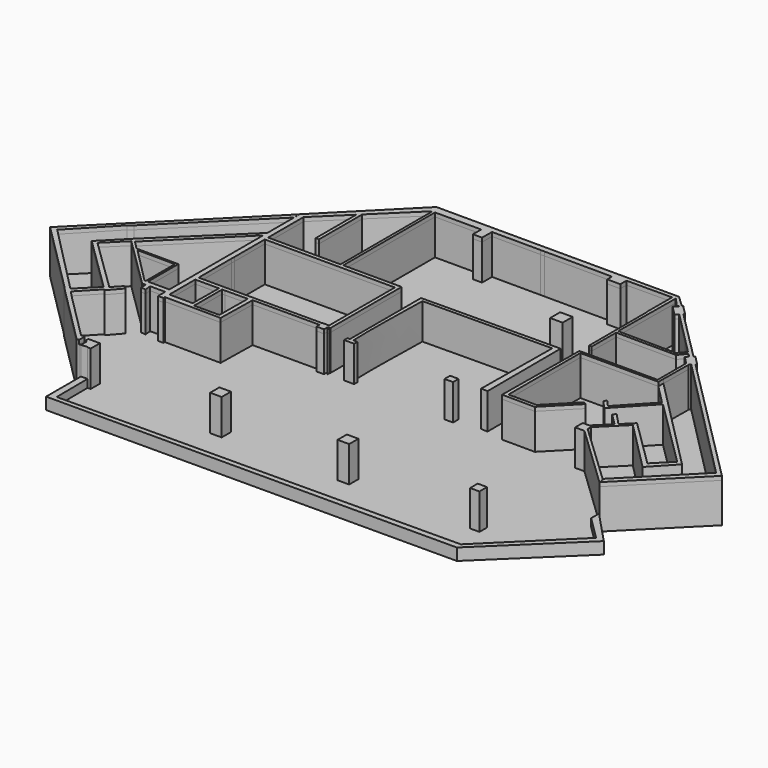
from build123d import *

# Parameters (mm, degrees)
F1_DEPTH = 25.4
F0_W     = 7.4122788
F0_H     = 7.4122788
F0_W_2   = 5.9868308
F0_H_2   = 6.1293756
F0_W_3   = 5.4580536
F0_H_3   = 4.4492164
F0_W_4   = 8.063484
F0_H_4   = 8.063484
F2_DEPTH = 7.62
F3_DEPTH = 2.54
F5_DEPTH = 2.54


with BuildPart() as f1:
    # F0 (on Top) → F1 (new body)
    with BuildSketch(Plane.XY):
        with BuildLine():
            Line((-186.579764, -10.2895908), (-174.435389, 1.704848))
            add(Edge.make_bspline(
                [(-174.435389, 1.704848), (-159.9824842, -12.9130044), (-156.0059618, -16.0330642), (-141.6006058, -30.6977796)],
                knots=[0, 0, 0, 0, 1, 1, 1, 1], degree=3))
            Line((-141.6006058, -30.6977796), (-139.2987308, -30.6095908))
            Line((-139.2987308, -30.6095908), (-139.3075446, -34.4989658))
            Line((-139.3075446, -34.4989658), (-136.1413584, -34.7370908))
            Line((-136.1413584, -34.7370908), (-136.5382334, -30.600777))
            Line((-136.5382334, -30.600777), (-126.828042, -30.600777))
            Line((-126.828042, -30.600777), (-126.828042, -36.3334046))
            Line((-126.828042, -36.3334046), (-123.4061032, -36.3334046))
            Line((-123.4061032, -36.3334046), (-123.4061032, -35.1604326))
            Line((-123.4061032, -35.1604326), (-87.458042, -35.3985576))
            Line((-87.458042, -35.3985576), (-86.964139, -10.2895908))
            Line((-86.964139, -10.2895908), (-44.1457334, -10.2190296))
            Line((-44.1457334, -10.2190296), (-44.1457334, -12.6443994))
            Line((-44.1457334, -12.6443994), (-39.3038584, -12.6443994))
            Line((-39.3038584, -12.6443994), (-39.3038584, -9.7516188))
            add(Edge.make_bspline(
                [(-39.3038584, -9.7516188), (-39.042594, -9.689719), (-38.7960362, -9.6362774), (-38.5806696, -9.6281494)],
                knots=[0, 0, 0, 0, 1, 1, 1, 1], degree=3))
            add(Edge.make_bspline(
                [(-38.5806696, -9.6281494), (-38.2217676, -9.6145858), (-37.9570488, -9.727311), (-37.910389, -10.1396546)],
                knots=[0, 0, 0, 0, 1, 1, 1, 1], degree=3))
            add(Edge.make_bspline(
                [(-37.910389, -10.1396546), (-37.5559828, -13.2721858), (-37.7503182, -11.264138), (-37.910389, -9.6281494)],
                knots=[0, 0, 0, 0, 1, 1, 1, 1], degree=3))
            Line((-37.910389, -9.6281494), (-37.6546364, -9.6281494))
            Line((-37.6546364, -9.6281494), (-37.6546364, 47.6012256))
            Line((-37.6546364, 47.6012256), (-75.137264, 47.6012256))
            Line((-75.137264, 47.6012256), (-75.137264, 121.1730368))
            Line((-75.137264, 121.1730368), (-45.4069196, 121.1730368))
            Line((-45.4069196, 121.1730368), (-45.5039476, 114.5408174))
            Line((-45.5039476, 114.5408174), (-39.6037308, 114.5143506))
            Line((-39.6037308, 114.5143506), (-39.5508226, 122.4606898))
            Line((-39.5508226, 122.4606898), (-8.2506058, 122.354848))
            Line((-8.2506058, 122.354848), (-5.9311032, 122.3460342))
            Line((-5.9311032, 122.3460342), (37.6722386, 122.2049118))
            Line((37.6722386, 122.2049118), (37.6722386, 118.3596312))
            Line((37.6722386, 118.3596312), (46.0948024, 118.306723))
            Line((46.0948024, 118.306723), (46.0859886, 123.2897204))
            Line((46.0859886, 123.2897204), (75.2519196, 123.4308174))
            Line((75.2519196, 123.4308174), (75.16368, 104.3808174))
            Line((75.16368, 104.3808174), (75.3930166, 102.3347204))
            Line((75.3930166, 102.3347204), (75.4635778, 56.5706006))
            Line((75.4635778, 56.5706006), (77.183361, 56.5353454))
            Line((77.183361, 56.5353454), (77.262736, 75.999848))
            Line((77.262736, 75.999848), (115.980083, 75.7970036))
            Line((115.980083, 75.7970036), (119.8993975101, 80.7291027287))
            Line((119.8993975101, 80.7291027287), (118.4822300976, 82.1553805053))
            Line((118.4822300976, 82.1553805053), (114.5425192, 77.5344398))
            Line((114.5425192, 77.5344398), (77.0510778, 77.8960342))
            Line((77.0510778, 77.8960342), (77.4744196, 123.4749118))
            Line((77.4744196, 123.4749118), (77.641958, 123.5278454))
            Line((77.641958, 123.5278454), (83.0306188, 117.4424118))
            Line((83.0306188, 117.4424118), (84.3404952529, 118.2445676529))
            Line((84.3404952529, 118.2445676529), (85.1126870864, 119.0167594864))
            Line((85.1126870864, 119.0167594864), (77.5361416, 126.1031006))
            Line((77.5361416, 126.1031006), (46.0771748, 126.1207536))
            Line((46.0771748, 126.1207536), (37.6722386, 126.1295674))
            Line((37.6722386, 126.1295674), (-78.2240752, 126.2001286))
            Line((-78.2240752, 126.2001286), (-126.810389, 77.3051286))
            Line((-126.810389, 77.3051286), (-126.8015752, 72.3397842))
            Line((-126.8015752, 72.3397842), (-126.810389, 51.3318506))
            Line((-126.810389, 51.3318506), (-175.008667, 4.7563786))
            Line((-175.008667, 4.7563786), (-190.0987308, -10.5365296))
            Line((-190.0987308, -10.5365296), (-154.2212308, -45.7349352))
            Line((-154.2212308, -45.7349352), (-166.1715752, -57.5441826))
            Line((-166.1715752, -57.5441826), (-211.2124808, -11.788902))
            Line((-211.2124808, -11.788902), (-186.835542, 13.7963148))
            Line((-186.835542, 13.7963148), (-184.0838584, 15.9482536))
            Line((-184.0838584, 15.9482536), (-126.8368558, 72.6837256))
            Line((-126.8368558, 72.6837256), (-126.8986032, 77.0934704))
            Line((-126.8986032, 77.0934704), (-215.7721364, -11.788902))
            Line((-215.7721364, -11.788902), (-169.2319196, -58.3291188))
            Line((-169.2319196, -58.3291188), (-169.3818558, -58.4702158))
            Line((-169.3818558, -58.4702158), (-129.3856696, -98.466402))
            Line((-129.3856696, -98.466402), (-128.0246868, -98.1021933913))
            Line((-128.0246868, -98.1021933913), (-128.0246868, -93.7303688))
            Line((-128.0246868, -93.7303688), (-130.3734502, -93.7303688))
            Line((-130.3734502, -93.7303688), (-161.4531696, -62.6594632))
            Line((-161.4531696, -62.6594632), (-163.975542, -59.7490296))
            Line((-163.975542, -59.7490296), (-152.3426976, -47.5693994))
            Line((-152.3426976, -47.5693994), (-151.6459502, -48.2573076))
            Line((-151.6459502, -48.2573076), (-144.608042, -40.1169632))
            Line((-144.608042, -40.1169632), (-146.733514, -38.4853688))
            Line((-146.733514, -38.4853688), (-151.972264, -44.0680602))
            Line((-151.972264, -44.0680602), (-186.579764, -10.2895908))
        make_face()
        Polygon((-123.4061032, -31.5973714), (-123.4061032, -10.7923076), (-108.2190114, -10.7923076), (-108.2190114, -17.7243994), (-108.4306696, -28.8280602), (-108.4042282, -31.5973714), align=None, mode=Mode.SUBTRACT)
        Polygon((-142.7912308, -27.3199352), (-165.9687308, -3.9748714), (-141.8387308, -4.1777158), (-141.8387308, -27.3199352), align=None, mode=Mode.SUBTRACT)
        with BuildLine():
            Line((-89.7687308, -10.6423714), (-89.980389, -33.220152))
            add(Edge.make_bspline(
                [(-89.980389, -33.220152), (-95.407353, -33.1318616), (-100.834063, -33.1901292), (-106.2611032, -33.2289658)],
                knots=[0, 0, 0, 0, 1, 1, 1, 1], degree=3))
            Line((-106.2611032, -33.2289658), (-106.1552614, -31.9413382))
            Line((-106.1552614, -31.9413382), (-106.1552614, -29.0309046))
            Line((-106.1552614, -29.0309046), (-106.1552614, -18.6416188))
            Line((-106.1552614, -18.6416188), (-106.1552614, -10.7923076))
            Line((-106.1552614, -10.7923076), (-104.1620726, -10.7923076))
            Line((-104.1620726, -10.7923076), (-89.7687308, -10.6423714))
        make_face(mode=Mode.SUBTRACT)
        Polygon((-172.7332334, 2.5074118), (-126.810389, 47.8922842), (-126.828042, -27.3199352), (-140.5334502, -27.3199352), (-140.5334502, -2.9694632), (-167.4856696, -2.8724352), align=None, mode=Mode.SUBTRACT)
        Polygon((-123.4061032, 43.138598), (-123.4061032, 44.9995036), (-39.9300446, 44.9995036), (-39.9300446, -7.7936852), (-44.1457334, -7.7936852), (-44.1457334, -7.9612744), (-74.5111032, -7.9877158), (-76.7071364, -7.9965296), (-81.2315114, -8.0141826), (-84.4594196, -8.0229964), (-89.027889, -8.0406494), (-100.1315752, -8.0847438), (-103.1654782, -8.0847438), (-123.4061032, -8.0847438), (-123.476639, 18.1707536), (-123.4061032, 20.8077562), align=None, mode=Mode.SUBTRACT)
        Polygon((-102.221792, 96.6814424), (-77.1040114, 121.1730368), (-76.8482334, 121.1730368), (-76.8482334, 47.6012256), (-123.4061032, 47.6012256), (-123.4061032, 76.0174756), (-104.364917, 94.5912256), (-104.364917, 61.9945674), (-102.221792, 61.9945674), align=None, mode=Mode.SUBTRACT)
        Polygon((89.5903613421, 111.2323156358), (91.0690922352, 112.7110564412), (91.694762, 113.3367304), (85.56371, 119.4677824), (85.1126870864, 119.0167594864), (84.3404952529, 118.2445676529), (81.7745126, 115.678585), (87.9055646, 109.5475076), align=None)
        Polygon((128.3329868442, 72.4310531806), (129.8406346931, 73.9343211209), (130.4704274, 74.5622842), (124.332111, 80.6917868), (123.679458, 80.0391592), (91.0690922352, 112.7110564412), (89.5903613421, 111.2323156358), (108.4747386, 92.2276286), (109.7800192, 90.9135342), (118.4822300976, 82.1553805053), (119.8993975101, 80.7291027287), (122.1272386, 78.4869398), (120.5485778, 76.9082536), (125.5138968, 71.9429092), (127.4365498, 71.5372204), align=None)
        Polygon((171.6043304, -51.6968994), (172.2458074, -55.86349), (215.772111, -12.2475244), (129.8406346931, 73.9343211209), (128.3329868442, 72.4310531806), (211.4329274, -11.4978688), align=None)
        with BuildLine():
            Line((127.2092319229, 51.5437936409), (127.4365498, 71.5372204))
            Line((127.4365498, 71.5372204), (125.5138968, 71.9429092))
            add(Edge.make_bspline(
                [(125.5138968, 71.9429092), (125.5015016, 71.0185524), (125.5557306, 51.8729976), (125.5226598, 49.0388148)],
                knots=[0, 0, 0, 0, 1, 1, 1, 1], degree=3))
            Line((125.5226598, 49.0388148), (75.3223792, 48.9858812))
            Line((75.3223792, 48.9858812), (77.1023718988, 47.477903465))
            Line((77.1023718988, 47.477903465), (127.1629918, 47.5306898))
            Line((127.1629918, 47.5306898), (127.1983994, 51.5547342259))
            Line((127.1983994, 51.5547342259), (127.2092319229, 51.5437936409))
        make_face()
        Polygon((77.1023718988, 47.477903465), (75.3223792, 48.9858812), (74.7226598, -12.3004326), (95.7835016, -12.3974352), (113.791055229, 5.9210716912), (112.0377236, 6.9612256), (95.1837568, -10.1837744), (77.1023718988, -10.1837744), align=None)
    extrude(amount=F1_DEPTH)

    # F4 (on Top) → F5 (join)
    with BuildSketch(Plane.XY):
        Polygon((-210.9410613775, -11.7175243795), (-166.242569685, -57.3654957116), (-154.4106155634, -45.6796176732), (-190.1986151934, -10.5489427224), (-127.0218342543, 51.3131767511), (-127.0218342543, 72.2016915679), align=None)
    extrude(amount=F5_DEPTH)


with BuildPart() as f1b:
    # F0 (on Top) → F1, piece 2 (new body)
    with BuildSketch(Plane.XY):
        Polygon((-128.0246868, -90.8087846), (-128.0246868, -93.7303688), (-126.8809502, -93.7303688), (-126.8809502, -97.7961214), (-128.0246868, -98.1021933913), (-128.0246868, -98.2210634), (-126.7919327242, -98.2210634), (-126.7919232, -98.2131132), (-122.6185, -97.6776558), (-122.6144333864, -98.2210634), (-120.612408, -98.2210634), (-120.612408, -90.8087846), align=None)
    extrude(amount=F1_DEPTH)


with BuildPart() as f1c:
    # F0 (on Top) → F1, piece 3 (new body)
    with BuildSketch(Plane.XY):
        with Locations((-40.217725, -94.514924)):
            Rectangle(F0_W, F0_H)
    extrude(amount=F1_DEPTH)


with BuildPart() as f1d:
    # F0 (on Top) → F1, piece 4 (new body)
    with BuildSketch(Plane.XY):
        with Locations((41.6023806, -94.514924)):
            Rectangle(F0_W, F0_H)
    extrude(amount=F1_DEPTH)


with BuildPart() as f1e:
    # F0 (on Top) → F1, piece 5 (new body)
    with BuildSketch(Plane.XY):
        with Locations((125.4181134, -94.5350408)):
            Rectangle(F0_W_2, F0_H_2)
    extrude(amount=F1_DEPTH)


with BuildPart() as f1f:
    # F0 (on Top) → F1, piece 6 (new body)
    with BuildSketch(Plane.XY):
        Polygon((128.4115288, -13.3362446), (128.4115288, -10.7728800491), (128.4115288, -8.2095154983), (128.4115288, -7.206869), (126.6358715953, -7.206869), (122.424698, -7.206869), (122.424698, -13.3362446), align=None)
        Polygon((141.141831, 33.7635342), (139.5278896, 34.9717868), (120.7865504, 15.0133812), (116.756053, 19.4495674), (115.6022055953, 17.7925513685), (120.7865504, 12.0863775155), align=None)
        Polygon((189.322583, -11.1891826), (127.2092319229, 51.5437936409), (127.1983994, 50.5910342), (127.1629918, 47.5306898), (139.5278896, 34.9717868), (141.141831, 33.7635342), (185.6976474, -10.5806494), align=None)
        Polygon((128.4115288, -7.206869), (128.4115288, -8.2095154983), (143.42618, 6.705473), (175.6888594622, -25.7727873056), (189.322583, -11.1891826), (185.6976474, -10.5806494), (175.0878896, -21.1992464), (143.7964866, 9.6335342), (137.1113336, 3.0718506), (129.6943304, 10.8947204), (128.0538968, 9.2542868), (135.7268304, 1.7136618), (126.6358715953, -7.206869), align=None)
        Polygon((168.8981636, -52.0098209381), (171.6043304, -51.6968994), (128.4115288, -10.7728800491), (128.4115288, -13.3362446), align=None)
    extrude(amount=F1_DEPTH)


with BuildPart() as f1g:
    # F0 (on Top) → F1, piece 7 (new body)
    with BuildSketch(Plane.XY):
        with Locations((41.2001208, -10.9341158)):
            Rectangle(F0_W_3, F0_H_3)
    extrude(amount=F1_DEPTH)


with BuildPart() as f1h:
    # F0 (on Top) → F1, piece 8 (new body)
    with BuildSketch(Plane.XY):
        with Locations((42.5104306, 75.5468136)):
            Rectangle(F0_W_4, F0_H_4)
    extrude(amount=F1_DEPTH)


with BuildPart() as f1i:
    # F0 (on Top) → F1, piece 9 (new body)
    with BuildSketch(Plane.XY):
        with BuildLine():
            Line((-20.781772, -8.9679272), (-23.3482388, -8.9679272))
            add(Edge.make_bspline(
                [(-23.3482388, -8.9679272), (-24.1461036, 7.4439526), (-23.1096566, 27.5244814), (-22.9450646, 45.8613002)],
                knots=[0, 0, 0, 0, 1, 1, 1, 1], degree=3))
            Line((-22.9450646, 45.8613002), (59.8487754, 46.5191602))
            Line((59.8487754, 46.5191602), (59.338337, -9.827133))
            Line((59.338337, -9.827133), (63.5677164, -10.0799138))
            Line((63.5677164, -10.0799138), (63.3305058, 48.8825794))
            Line((63.3305058, 48.8825794), (-25.5707388, 48.076231))
            Line((-25.5707388, 48.076231), (-25.5707388, -8.9679272))
            Line((-25.5707388, -8.9679272), (-27.131772, -8.9679272))
            Line((-27.131772, -8.9679272), (-27.1847056, -11.5961414))
            Line((-27.1847056, -11.5961414), (-20.781772, -11.5961414))
            Line((-20.781772, -11.5961414), (-20.781772, -8.9679272))
        make_face()
    extrude(amount=F1_DEPTH)


with BuildPart() as f2:
    # F0 (on Top) → F2 (new body)
    with BuildSketch(Plane.XY):
        Polygon((-122.6144333864, -98.2210634), (-126.7919327242, -98.2210634), (-126.8254512, -126.2001286), (136.253347, -125.4844074), (189.428374, -74.061955), (172.2458074, -55.86349), (171.6043304, -51.6968994), (168.8981636, -52.0098209381), (168.8981636, -58.5696568), (184.1954152, -73.6845872), (135.6508844, -121.5501252), (-122.4276444, -123.1810338), align=None)
    extrude(amount=F2_DEPTH)


with BuildPart() as f3:
    # F0 (on Top) + F1_face (on face) → F3 (new body)
    with BuildSketch(Plane.XY):
        with BuildLine():
            add(Edge.make_bspline(
                [(-174.435389, 1.704848), (-159.9824842, -12.9130044), (-156.0059618, -16.0330642), (-141.6006058, -30.6977796)],
                knots=[0, 0, 0, 0, 1, 1, 1, 1], degree=3))
            Line((-174.435389, 1.704848), (-186.579764, -10.2895908))
            Line((-186.579764, -10.2895908), (-151.972264, -44.0680602))
            Line((-151.972264, -44.0680602), (-146.733514, -38.4853688))
            Line((-146.733514, -38.4853688), (-144.608042, -40.1169632))
            Line((-144.608042, -40.1169632), (-151.6459502, -48.2573076))
            Line((-151.6459502, -48.2573076), (-152.3426976, -47.5693994))
            Line((-152.3426976, -47.5693994), (-163.975542, -59.7490296))
            Line((-163.975542, -59.7490296), (-161.4531696, -62.6594632))
            Line((-161.4531696, -62.6594632), (-130.3734502, -93.7303688))
            Line((-130.3734502, -93.7303688), (-128.0246868, -93.7303688))
            Line((-128.0246868, -93.7303688), (-128.0246868, -90.8087846))
            Line((-128.0246868, -90.8087846), (-120.612408, -90.8087846))
            Line((-120.612408, -90.8087846), (-120.612408, -98.2210634))
            Line((-120.612408, -98.2210634), (-122.6144333864, -98.2210634))
            Line((-122.6144333864, -98.2210634), (-122.4276444, -123.1810338))
            Line((-122.4276444, -123.1810338), (135.6508844, -121.5501252))
            Line((135.6508844, -121.5501252), (184.1954152, -73.6845872))
            Line((184.1954152, -73.6845872), (168.8981636, -58.5696568))
            Line((168.8981636, -58.5696568), (168.8981636, -52.0098209381))
            Line((168.8981636, -52.0098209381), (128.4115288, -13.3362446))
            Line((128.4115288, -13.3362446), (122.424698, -13.3362446))
            Line((122.424698, -13.3362446), (122.424698, -7.206869))
            Line((122.424698, -7.206869), (126.6358715953, -7.206869))
            Line((126.6358715953, -7.206869), (135.7268304, 1.7136618))
            Line((135.7268304, 1.7136618), (128.0538968, 9.2542868))
            Line((128.0538968, 9.2542868), (129.6943304, 10.8947204))
            Line((129.6943304, 10.8947204), (137.1113336, 3.0718506))
            Line((137.1113336, 3.0718506), (143.7964866, 9.6335342))
            Line((143.7964866, 9.6335342), (175.0878896, -21.1992464))
            Line((175.0878896, -21.1992464), (185.6976474, -10.5806494))
            Line((185.6976474, -10.5806494), (141.141831, 33.7635342))
            Line((141.141831, 33.7635342), (120.7865504, 12.0863775155))
            Line((120.7865504, 12.0863775155), (115.6022055953, 17.7925513685))
            Line((115.6022055953, 17.7925513685), (116.756053, 19.4495674))
            Line((116.756053, 19.4495674), (120.7865504, 15.0133812))
            Line((120.7865504, 15.0133812), (139.5278896, 34.9717868))
            Line((139.5278896, 34.9717868), (127.1629918, 47.5306898))
            Line((127.1629918, 47.5306898), (77.1023718988, 47.477903465))
            Line((77.1023718988, 47.477903465), (77.1023718988, -10.1837744))
            Line((77.1023718988, -10.1837744), (95.1837568, -10.1837744))
            Line((95.1837568, -10.1837744), (112.0377236, 6.9612256))
            Line((112.0377236, 6.9612256), (113.791055229, 5.9210716912))
            Line((113.791055229, 5.9210716912), (95.7835016, -12.3974352))
            Line((95.7835016, -12.3974352), (74.7226598, -12.3004326))
            Line((74.7226598, -12.3004326), (75.3223792, 48.9858812))
            Line((75.3223792, 48.9858812), (125.5226598, 49.0388148))
            add(Edge.make_bspline(
                [(125.5138968, 71.9429092), (125.5015016, 71.0185524), (125.5557306, 51.8729976), (125.5226598, 49.0388148)],
                knots=[0, 0, 0, 0, 1, 1, 1, 1], degree=3))
            Line((125.5138968, 71.9429092), (120.5485778, 76.9082536))
            Line((120.5485778, 76.9082536), (122.1272386, 78.4869398))
            Line((122.1272386, 78.4869398), (119.8993975101, 80.7291027287))
            Line((119.8993975101, 80.7291027287), (115.980083, 75.7970036))
            Line((115.980083, 75.7970036), (77.262736, 75.999848))
            Line((77.262736, 75.999848), (77.183361, 56.5353454))
            Line((77.183361, 56.5353454), (75.4635778, 56.5706006))
            Line((75.4635778, 56.5706006), (75.3930166, 102.3347204))
            Line((75.3930166, 102.3347204), (75.16368, 104.3808174))
            Line((75.16368, 104.3808174), (75.2519196, 123.4308174))
            Line((75.2519196, 123.4308174), (46.0859886, 123.2897204))
            Line((46.0859886, 123.2897204), (46.0948024, 118.306723))
            Line((46.0948024, 118.306723), (37.6722386, 118.3596312))
            Line((37.6722386, 118.3596312), (37.6722386, 122.2049118))
            Line((37.6722386, 122.2049118), (-5.9311032, 122.3460342))
            Line((-5.9311032, 122.3460342), (-8.2506058, 122.354848))
            Line((-8.2506058, 122.354848), (-39.5508226, 122.4606898))
            Line((-39.5508226, 122.4606898), (-39.6037308, 114.5143506))
            Line((-39.6037308, 114.5143506), (-45.5039476, 114.5408174))
            Line((-45.5039476, 114.5408174), (-45.4069196, 121.1730368))
            Line((-45.4069196, 121.1730368), (-75.137264, 121.1730368))
            Line((-75.137264, 121.1730368), (-75.137264, 47.6012256))
            Line((-75.137264, 47.6012256), (-37.6546364, 47.6012256))
            Line((-37.6546364, 47.6012256), (-37.6546364, -9.6281494))
            Line((-37.6546364, -9.6281494), (-37.910389, -9.6281494))
            add(Edge.make_bspline(
                [(-37.910389, -10.1396546), (-37.5559828, -13.2721858), (-37.7503182, -11.264138), (-37.910389, -9.6281494)],
                knots=[0, 0, 0, 0, 1, 1, 1, 1], degree=3))
            add(Edge.make_bspline(
                [(-38.5806696, -9.6281494), (-38.2217676, -9.6145858), (-37.9570488, -9.727311), (-37.910389, -10.1396546)],
                knots=[0, 0, 0, 0, 1, 1, 1, 1], degree=3))
            add(Edge.make_bspline(
                [(-39.3038584, -9.7516188), (-39.042594, -9.689719), (-38.7960362, -9.6362774), (-38.5806696, -9.6281494)],
                knots=[0, 0, 0, 0, 1, 1, 1, 1], degree=3))
            Line((-39.3038584, -9.7516188), (-39.3038584, -12.6443994))
            Line((-39.3038584, -12.6443994), (-44.1457334, -12.6443994))
            Line((-44.1457334, -12.6443994), (-44.1457334, -10.2190296))
            Line((-44.1457334, -10.2190296), (-86.964139, -10.2895908))
            Line((-86.964139, -10.2895908), (-87.458042, -35.3985576))
            Line((-87.458042, -35.3985576), (-123.4061032, -35.1604326))
            Line((-123.4061032, -35.1604326), (-123.4061032, -36.3334046))
            Line((-123.4061032, -36.3334046), (-126.828042, -36.3334046))
            Line((-126.828042, -36.3334046), (-126.828042, -30.600777))
            Line((-126.828042, -30.600777), (-136.5382334, -30.600777))
            Line((-136.5382334, -30.600777), (-136.1413584, -34.7370908))
            Line((-136.1413584, -34.7370908), (-139.3075446, -34.4989658))
            Line((-139.3075446, -34.4989658), (-139.2987308, -30.6095908))
            Line((-139.2987308, -30.6095908), (-141.6006058, -30.6977796))
        make_face()
        with Locations((-40.217725, -94.514924)):
            Rectangle(F0_W, F0_H, mode=Mode.SUBTRACT)
        with Locations((41.6023806, -94.514924)):
            Rectangle(F0_W, F0_H, mode=Mode.SUBTRACT)
        with Locations((125.4181134, -94.5350408)):
            Rectangle(F0_W_2, F0_H_2, mode=Mode.SUBTRACT)
        with Locations((41.2001208, -10.9341158)):
            Rectangle(F0_W_3, F0_H_3, mode=Mode.SUBTRACT)
        with BuildLine():
            add(Edge.make_bspline(
                [(-23.3482388, -8.9679272), (-24.1461036, 7.4439526), (-23.1096566, 27.5244814), (-22.9450646, 45.8613002)],
                knots=[0, 0, 0, 0, 1, 1, 1, 1], degree=3))
            Line((-23.3482388, -8.9679272), (-20.781772, -8.9679272))
            Line((-20.781772, -8.9679272), (-20.781772, -11.5961414))
            Line((-20.781772, -11.5961414), (-27.1847056, -11.5961414))
            Line((-27.1847056, -11.5961414), (-27.131772, -8.9679272))
            Line((-27.131772, -8.9679272), (-25.5707388, -8.9679272))
            Line((-25.5707388, -8.9679272), (-25.5707388, 48.076231))
            Line((-25.5707388, 48.076231), (63.3305058, 48.8825794))
            Line((63.3305058, 48.8825794), (63.5677164, -10.0799138))
            Line((63.5677164, -10.0799138), (59.338337, -9.827133))
            Line((59.338337, -9.827133), (59.8487754, 46.5191602))
            Line((59.8487754, 46.5191602), (-22.9450646, 45.8613002))
        make_face(mode=Mode.SUBTRACT)
        with Locations((42.5104306, 75.5468136)):
            Rectangle(F0_W_4, F0_H_4, mode=Mode.SUBTRACT)
        with BuildLine():
            add(Edge.make_bspline(
                [(-89.980389, -33.220152), (-95.407353, -33.1318616), (-100.834063, -33.1901292), (-106.2611032, -33.2289658)],
                knots=[0, 0, 0, 0, 1, 1, 1, 1], degree=3))
            Line((-89.980389, -33.220152), (-89.7687308, -10.6423714))
            Line((-89.7687308, -10.6423714), (-104.1620726, -10.7923076))
            Line((-104.1620726, -10.7923076), (-106.1552614, -10.7923076))
            Line((-106.1552614, -10.7923076), (-106.1552614, -18.6416188))
            Line((-106.1552614, -18.6416188), (-106.1552614, -29.0309046))
            Line((-106.1552614, -29.0309046), (-106.1552614, -31.9413382))
            Line((-106.1552614, -31.9413382), (-106.2611032, -33.2289658))
        make_face()
        Polygon((-39.9300446, 44.9995036), (-123.4061032, 44.9995036), (-123.4061032, 43.138598), (-123.4061032, 20.8077562), (-123.476639, 18.1707536), (-123.4061032, -8.0847438), (-103.1654782, -8.0847438), (-100.1315752, -8.0847438), (-89.027889, -8.0406494), (-84.4594196, -8.0229964), (-81.2315114, -8.0141826), (-76.7071364, -7.9965296), (-74.5111032, -7.9877158), (-44.1457334, -7.9612744), (-44.1457334, -7.7936852), (-39.9300446, -7.7936852), align=None)
        Polygon((-76.8482334, 121.1730368), (-77.1040114, 121.1730368), (-102.221792, 96.6814424), (-102.221792, 61.9945674), (-104.364917, 61.9945674), (-104.364917, 94.5912256), (-123.4061032, 76.0174756), (-123.4061032, 47.6012256), (-76.8482334, 47.6012256), align=None)
        Polygon((-126.828042, -27.3199352), (-126.810389, 47.8922842), (-172.7332334, 2.5074118), (-167.4856696, -2.8724352), (-140.5334502, -2.9694632), (-140.5334502, -27.3199352), align=None)
        Polygon((-141.8387308, -4.1777158), (-165.9687308, -3.9748714), (-142.7912308, -27.3199352), (-141.8387308, -27.3199352), align=None)
        Polygon((128.4115288, -10.7728800491), (171.6043304, -51.6968994), (211.4329274, -11.4978688), (128.3329868442, 72.4310531806), (127.4365498, 71.5372204), (127.2092319229, 51.5437936409), (189.322583, -11.1891826), (175.6888594622, -25.7727873056), (143.42618, 6.705473), (128.4115288, -8.2095154983), align=None)
        Polygon((108.4747386, 92.2276286), (89.5903613421, 111.2323156358), (87.9055646, 109.5475076), (81.7745126, 115.678585), (84.3404952529, 118.2445676529), (83.0306188, 117.4424118), (77.641958, 123.5278454), (77.4744196, 123.4749118), (77.0510778, 77.8960342), (114.5425192, 77.5344398), (118.4822300976, 82.1553805053), (109.7800192, 90.9135342), align=None)
    with BuildSketch(Plane(origin=(-45.101624002, 35.436225015, 25.4), x_dir=(1, 0, 0), z_dir=(0, 0, 1))):
        with BuildLine():
            Line((-33.122451198, 90.763903585), (-81.708764998, 41.868903585))
            Line((-81.708764998, 41.868903585), (-81.699951198, 36.903559185))
            Line((-81.699951198, 36.903559185), (-81.708764998, 15.895625585))
            Line((-81.708764998, 15.895625585), (-129.907042998, -30.679846415))
            Line((-129.907042998, -30.679846415), (-144.997106798, -45.972754615))
            Line((-144.997106798, -45.972754615), (-109.119606798, -81.171160215))
            Line((-109.119606798, -81.171160215), (-121.069951198, -92.980407615))
            Line((-121.069951198, -92.980407615), (-166.110856798, -47.225127015))
            Line((-166.110856798, -47.225127015), (-141.733917998, -21.639910215))
            Line((-141.733917998, -21.639910215), (-138.982234398, -19.487971415))
            Line((-138.982234398, -19.487971415), (-81.735231798, 37.247500585))
            Line((-81.735231798, 37.247500585), (-81.796979198, 41.657245385))
            Line((-81.796979198, 41.657245385), (-170.670512398, -47.225127015))
            Line((-170.670512398, -47.225127015), (-124.130295598, -93.765343815))
            Line((-124.130295598, -93.765343815), (-124.280231798, -93.906440815))
            Line((-124.280231798, -93.906440815), (-84.284045598, -133.902627015))
            Line((-84.284045598, -133.902627015), (-82.923062798, -133.5384184063))
            Line((-82.923062798, -133.5384184063), (-82.923062798, -129.166593815))
            Line((-82.923062798, -129.166593815), (-85.271826198, -129.166593815))
            Line((-85.271826198, -129.166593815), (-116.351545598, -98.095688215))
            Line((-116.351545598, -98.095688215), (-118.873917998, -95.185254615))
            Line((-118.873917998, -95.185254615), (-107.241073598, -83.005624415))
            Line((-107.241073598, -83.005624415), (-106.544326198, -83.693532615))
            Line((-106.544326198, -83.693532615), (-99.506417998, -75.553188215))
            Line((-99.506417998, -75.553188215), (-101.631889998, -73.921593815))
            Line((-101.631889998, -73.921593815), (-106.870639998, -79.504285215))
            Line((-106.870639998, -79.504285215), (-141.478139998, -45.725815815))
            Line((-141.478139998, -45.725815815), (-129.333764998, -33.731377015))
            add(Edge.make_bspline(
                [(-129.333764998, -33.731377015), (-114.880860198, -48.349229415), (-110.904337798, -51.469289215), (-96.498981798, -66.134004615)],
                knots=[0, 0, 0, 0, 1, 1, 1, 1], degree=3))
            Line((-96.498981798, -66.134004615), (-94.197106798, -66.045815815))
            Line((-94.197106798, -66.045815815), (-94.205920598, -69.935190815))
            Line((-94.205920598, -69.935190815), (-91.039734398, -70.173315815))
            Line((-91.039734398, -70.173315815), (-91.436609398, -66.037002015))
            Line((-91.436609398, -66.037002015), (-81.726417998, -66.037002015))
            Line((-81.726417998, -66.037002015), (-81.726417998, -71.769629615))
            Line((-81.726417998, -71.769629615), (-78.304479198, -71.769629615))
            Line((-78.304479198, -71.769629615), (-78.304479198, -70.596657615))
            Line((-78.304479198, -70.596657615), (-42.356417998, -70.834782615))
            Line((-42.356417998, -70.834782615), (-41.862514998, -45.725815815))
            Line((-41.862514998, -45.725815815), (0.955890602, -45.655254615))
            Line((0.955890602, -45.655254615), (0.955890602, -48.080624415))
            Line((0.955890602, -48.080624415), (5.797765602, -48.080624415))
            Line((5.797765602, -48.080624415), (5.797765602, -45.187843815))
            add(Edge.make_bspline(
                [(5.797765602, -45.187843815), (6.059030002, -45.125944015), (6.305587802, -45.072502415), (6.520954402, -45.064374415)],
                knots=[0, 0, 0, 0, 1, 1, 1, 1], degree=3))
            add(Edge.make_bspline(
                [(6.520954402, -45.064374415), (6.879856402, -45.050810815), (7.144575202, -45.163536015), (7.191235002, -45.575879615)],
                knots=[0, 0, 0, 0, 1, 1, 1, 1], degree=3))
            add(Edge.make_bspline(
                [(7.191235002, -45.575879615), (7.545641202, -48.708410815), (7.351305802, -46.700363015), (7.191235002, -45.064374415)],
                knots=[0, 0, 0, 0, 1, 1, 1, 1], degree=3))
            Line((7.191235002, -45.064374415), (7.446987602, -45.064374415))
            Line((7.446987602, -45.064374415), (7.446987602, 12.165000585))
            Line((7.446987602, 12.165000585), (-30.035639998, 12.165000585))
            Line((-30.035639998, 12.165000585), (-30.035639998, 85.736811785))
            Line((-30.035639998, 85.736811785), (-0.305295598, 85.736811785))
            Line((-0.305295598, 85.736811785), (-0.402323598, 79.104592385))
            Line((-0.402323598, 79.104592385), (5.497893202, 79.078125585))
            Line((5.497893202, 79.078125585), (5.550801402, 87.024464785))
            Line((5.550801402, 87.024464785), (36.851018202, 86.918622985))
            Line((36.851018202, 86.918622985), (39.170520802, 86.909809185))
            Line((39.170520802, 86.909809185), (82.773862602, 86.768686785))
            Line((82.773862602, 86.768686785), (82.773862602, 82.923406185))
            Line((82.773862602, 82.923406185), (91.196426402, 82.870497985))
            Line((91.196426402, 82.870497985), (91.187612602, 87.853495385))
            Line((91.187612602, 87.853495385), (120.353543602, 87.994592385))
            Line((120.353543602, 87.994592385), (120.265304002, 68.944592385))
            Line((120.265304002, 68.944592385), (120.494640602, 66.898495385))
            Line((120.494640602, 66.898495385), (120.565201802, 21.134375585))
            Line((120.565201802, 21.134375585), (122.284985002, 21.099120385))
            Line((122.284985002, 21.099120385), (122.364360002, 40.563622985))
            Line((122.364360002, 40.563622985), (161.081707002, 40.360778585))
            Line((161.081707002, 40.360778585), (165.0010215121, 45.2928777138))
            Line((165.0010215121, 45.2928777138), (167.228862602, 43.050714785))
            Line((167.228862602, 43.050714785), (165.650201802, 41.472028585))
            Line((165.650201802, 41.472028585), (170.615520802, 36.506684185))
            add(Edge.make_bspline(
                [(170.615520802, 36.506684185), (170.603125602, 35.582327385), (170.657354602, 16.436772585), (170.624283802, 13.602589785)],
                knots=[0, 0, 0, 0, 1, 1, 1, 1], degree=3))
            Line((170.624283802, 13.602589785), (120.424003202, 13.549656185))
            Line((120.424003202, 13.549656185), (119.824283802, -47.736657615))
            Line((119.824283802, -47.736657615), (140.885125602, -47.833660215))
            Line((140.885125602, -47.833660215), (158.892679231, -29.5151533238))
            Line((158.892679231, -29.5151533238), (157.139347602, -28.474999415))
            Line((157.139347602, -28.474999415), (140.285380802, -45.619999415))
            Line((140.285380802, -45.619999415), (122.2039959008, -45.619999415))
            Line((122.2039959008, -45.619999415), (122.2039959008, 12.04167845))
            Line((122.2039959008, 12.04167845), (172.264615802, 12.094464785))
            Line((172.264615802, 12.094464785), (172.300023402, 16.118509211))
            Line((172.300023402, 16.118509211), (172.3108559249, 16.1075686259))
            Line((172.3108559249, 16.1075686259), (172.538173802, 36.100995385))
            Line((172.538173802, 36.100995385), (173.4346108462, 36.9948281657))
            Line((173.4346108462, 36.9948281657), (256.534551402, -46.934093815))
            Line((256.534551402, -46.934093815), (216.705954402, -87.133124415))
            Line((216.705954402, -87.133124415), (217.347431402, -91.299715015))
            Line((217.347431402, -91.299715015), (260.873735002, -47.683749415))
            Line((260.873735002, -47.683749415), (174.9422586951, 38.4980961059))
            Line((174.9422586951, 38.4980961059), (175.572051402, 39.126059185))
            Line((175.572051402, 39.126059185), (169.433735002, 45.255561785))
            Line((169.433735002, 45.255561785), (168.781082002, 44.602934185))
            Line((168.781082002, 44.602934185), (136.1707162372, 77.2748314262))
            Line((136.1707162372, 77.2748314262), (136.796386002, 77.900505385))
            Line((136.796386002, 77.900505385), (130.665334002, 84.031557385))
            Line((130.665334002, 84.031557385), (130.2143110884, 83.5805344714))
            Line((130.2143110884, 83.5805344714), (122.637765602, 90.666875585))
            Line((122.637765602, 90.666875585), (91.178798802, 90.684528585))
            Line((91.178798802, 90.684528585), (82.773862602, 90.693342385))
            Line((82.773862602, 90.693342385), (-33.122451198, 90.763903585))
        make_face()
        Polygon((163.5838540996, 46.7191554903), (159.644143202, 42.098214785), (122.152701802, 42.459809185), (122.576043602, 88.038686785), (122.743582002, 88.091620385), (128.132242802, 82.006186785), (129.4421192549, 82.8083426379), (126.876136602, 80.242359985), (133.007188602, 74.111282585), (134.6919853441, 75.7960906208), (153.576362602, 56.791403585), (154.881643202, 55.477309185), align=None, mode=Mode.SUBTRACT)
        Polygon((-78.304479198, -67.033596415), (-78.304479198, -46.228532615), (-63.117387398, -46.228532615), (-63.117387398, -53.160624415), (-63.329045598, -64.264285215), (-63.302604198, -67.033596415), align=None, mode=Mode.SUBTRACT)
        Polygon((-120.867106798, -39.411096415), (-96.737106798, -39.613940815), (-96.737106798, -62.756160215), (-97.689606798, -62.756160215), align=None, mode=Mode.SUBTRACT)
        with BuildLine():
            Line((-44.667106798, -46.078596415), (-44.878764998, -68.656377015))
            add(Edge.make_bspline(
                [(-44.878764998, -68.656377015), (-50.305728998, -68.568086615), (-55.732438998, -68.626354215), (-61.159479198, -68.665190815)],
                knots=[0, 0, 0, 0, 1, 1, 1, 1], degree=3))
            Line((-61.159479198, -68.665190815), (-61.053637398, -67.377563215))
            Line((-61.053637398, -67.377563215), (-61.053637398, -46.228532615))
            Line((-61.053637398, -46.228532615), (-59.060448598, -46.228532615))
            Line((-59.060448598, -46.228532615), (-44.667106798, -46.078596415))
        make_face(mode=Mode.SUBTRACT)
        Polygon((-127.631609398, -32.928813215), (-81.708764998, 12.456059185), (-81.726417998, -62.756160215), (-95.431826198, -62.756160215), (-95.431826198, -38.405688215), (-122.384045598, -38.308660215), align=None, mode=Mode.SUBTRACT)
        Polygon((-78.304479198, 9.563278585), (5.171579402, 9.563278585), (5.171579402, -43.229910215), (0.955890602, -43.229910215), (0.955890602, -43.397499415), (-29.409479198, -43.423940815), (-31.605512398, -43.432754615), (-36.129887398, -43.450407615), (-39.357795598, -43.459221415), (-43.926264998, -43.476874415), (-55.029951198, -43.520968815), (-78.304479198, -43.520968815), (-78.375014998, -17.265471415), (-78.304479198, -14.628468815), align=None, mode=Mode.SUBTRACT)
        Polygon((-57.120167998, 61.245217385), (-32.002387398, 85.736811785), (-31.746609398, 85.736811785), (-31.746609398, 12.165000585), (-78.304479198, 12.165000585), (-78.304479198, 40.581250585), (-59.263292998, 59.155000585), (-59.263292998, 26.558342385), (-57.120167998, 26.558342385), align=None, mode=Mode.SUBTRACT)
    extrude(amount=F3_DEPTH)


solid = Compound([f1.part, f1b.part, f1c.part, f1d.part, f1e.part, f1f.part, f1g.part, f1h.part, f1i.part, f2.part, f3.part])
